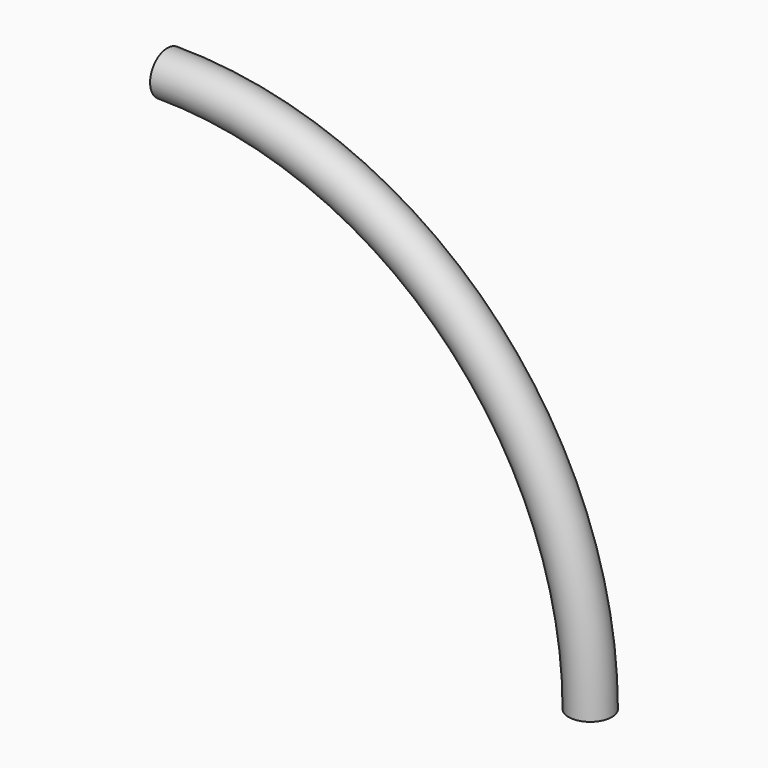
from build123d import *

# Parameters (mm, degrees)
F1_R = 2.55142
F3_R = 1.5


with BuildPart() as f2:
    # F2: sweep along a path in F0
    with BuildLine(Plane.XZ) as f2_path:
        ThreePointArc((50, 0), (35.355339, 35.355339), (0, 50))
    # F1 (on Right) → F2 (sweep)
    with BuildSketch(Plane.YZ):
        with Locations((-0.027176, 49.920511)):
            Circle(F1_R)
    sweep(path=f2_path.line)

    # F4: sweep along a path in F0
    with BuildLine(Plane.XZ) as f4_path:
        ThreePointArc((50, 0), (35.355339, 35.355339), (0, 50))
    # F3 (on face) → F4 (sweep, cut)
    with BuildSketch(Plane(origin=(0, 0, 0), x_dir=(0, -1, 0), z_dir=(-1, 0, 0))):
        with Locations((0.027176, 49.920511)):
            Circle(F3_R)
    sweep(path=f4_path.line, mode=Mode.SUBTRACT)


solid = f2.part
